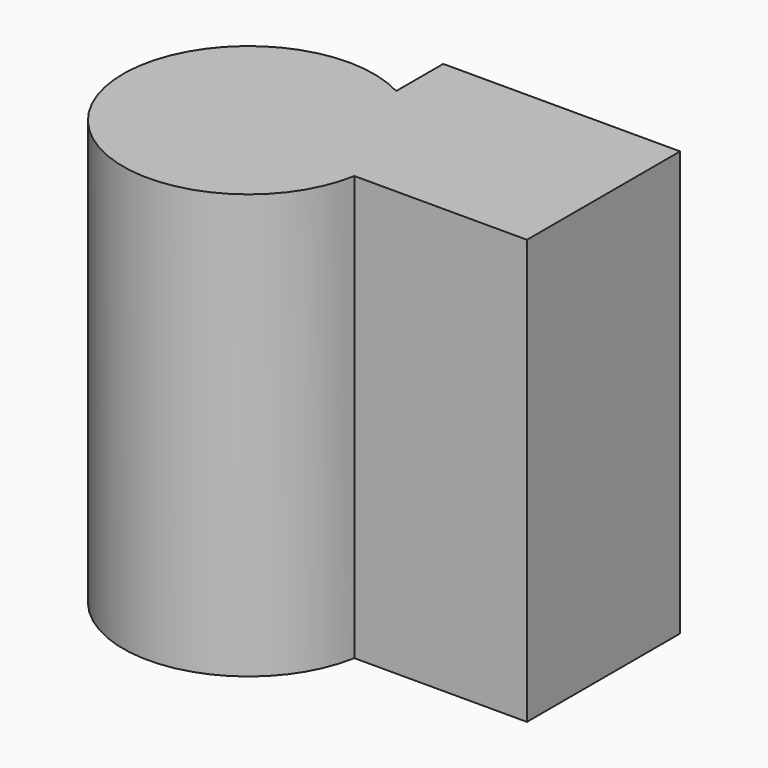
from build123d import *

# Parameters (mm, degrees)
F1_DEPTH = 67.31
F2_DEPTH = 25.4


with BuildPart() as f1:
    # F0 (on Top) → F1 (new body)
    with BuildSketch(Plane.XY):
        with BuildLine():
            ThreePointArc((-6.1162381901, 23.7623695284), (-5.7969324328, 26.1592759352), (-5.6902200774, 28.5750012845))
            ThreePointArc((-5.6902200774, 28.5750012845), (-9.5823604521, 42.6503078125), (-20.1528966427, 52.7263573954))
            Line((-20.1528966427, 52.7263573954), (-20.1528966427, 23.7623695284))
            Line((-20.1528966427, 23.7623695284), (-6.1162381901, 23.7623695284))
        make_face()
        with BuildLine():
            ThreePointArc((-20.1528966427, 52.7263573954), (-9.5823604521, 42.6503078125), (-5.6902200774, 28.5750012845))
            ThreePointArc((-5.6902200774, 28.5750012845), (-5.7969324328, 26.1592759352), (-6.1162381901, 23.7623695284))
            Line((-6.1162381901, 23.7623695284), (31.5828956664, 23.7623695284))
            Line((31.5828956664, 23.7623695284), (31.5828956664, 65.5721053481))
            Line((31.5828956664, 65.5721053481), (-20.1528966427, 65.5721053481))
            Line((-20.1528966427, 65.5721053481), (-20.1528966427, 52.7263573954))
        make_face()
        with BuildLine():
            Line((-20.1528966427, 23.7623695284), (-20.1528966427, 52.7263573954))
            ThreePointArc((-20.1528966427, 52.7263573954), (-57.7408795784, 16.6270512491), (-6.1162381901, 23.7623695284))
            Line((-6.1162381901, 23.7623695284), (-20.1528966427, 23.7623695284))
        make_face()
    extrude(amount=-F1_DEPTH)

    # F0 (on Top) → F2 (join)
    with BuildSketch(Plane.XY):
        with BuildLine():
            ThreePointArc((-6.1162381901, 23.7623695284), (-5.7969324328, 26.1592759352), (-5.6902200774, 28.5750012845))
            ThreePointArc((-5.6902200774, 28.5750012845), (-9.5823604521, 42.6503078125), (-20.1528966427, 52.7263573954))
            Line((-20.1528966427, 52.7263573954), (-20.1528966427, 23.7623695284))
            Line((-20.1528966427, 23.7623695284), (-6.1162381901, 23.7623695284))
        make_face()
        with BuildLine():
            ThreePointArc((-20.1528966427, 52.7263573954), (-9.5823604521, 42.6503078125), (-5.6902200774, 28.5750012845))
            ThreePointArc((-5.6902200774, 28.5750012845), (-5.7969324328, 26.1592759352), (-6.1162381901, 23.7623695284))
            Line((-6.1162381901, 23.7623695284), (31.5828956664, 23.7623695284))
            Line((31.5828956664, 23.7623695284), (31.5828956664, 65.5721053481))
            Line((31.5828956664, 65.5721053481), (-20.1528966427, 65.5721053481))
            Line((-20.1528966427, 65.5721053481), (-20.1528966427, 52.7263573954))
        make_face()
        with BuildLine():
            Line((-20.1528966427, 23.7623695284), (-20.1528966427, 52.7263573954))
            ThreePointArc((-20.1528966427, 52.7263573954), (-57.7408795784, 16.6270512491), (-6.1162381901, 23.7623695284))
            Line((-6.1162381901, 23.7623695284), (-20.1528966427, 23.7623695284))
        make_face()
    extrude(amount=F2_DEPTH)


solid = f1.part
